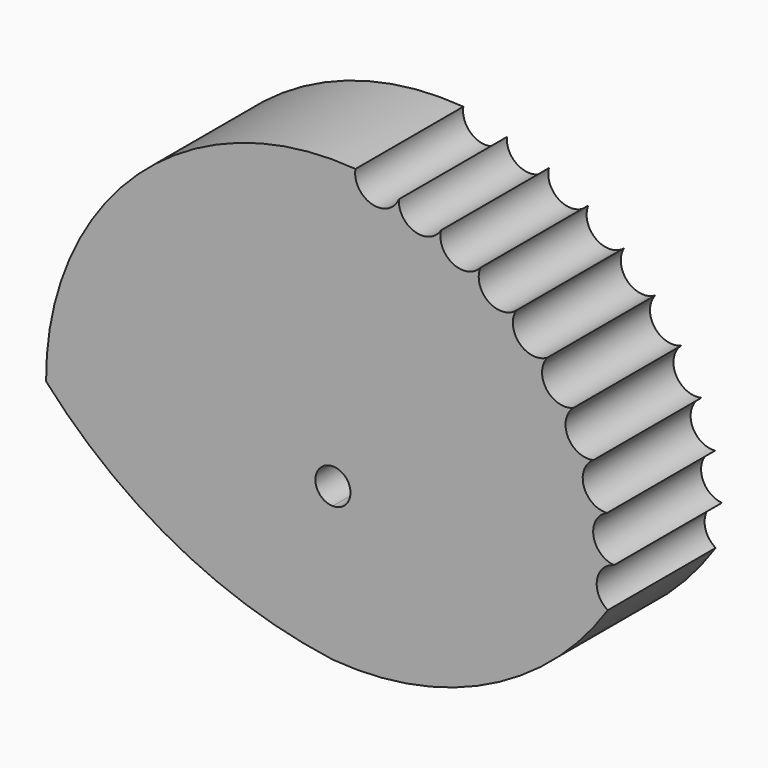
from build123d import *

# Parameters (mm, degrees)
F1_DEPTH = 25.4


with BuildPart() as f1:
    # F0 (on Front) → F1 (new body)
    with BuildSketch(Plane.XZ):
        with BuildLine():
            ThreePointArc((-53.975, 0), (-29.525617, -19.081722), (0, -28.575))
            ThreePointArc((0, -28.575), (29.3147, -23.111721), (51.802958, -3.529144))
            ThreePointArc((51.802958, -3.529144), (49.760215, 0.789496), (52.97806, 4.320632))
            ThreePointArc((52.97806, 4.320632), (49.106205, 7.927093), (51.67978, 12.550353))
            ThreePointArc((51.67978, 12.550353), (47.291419, 15.506721), (49.110072, 20.475657))
            ThreePointArc((49.110072, 20.475657), (44.313262, 22.709137), (45.332211, 27.901397))
            ThreePointArc((45.332211, 27.901397), (40.245064, 29.356992), (40.439221, 34.644726))
            ThreePointArc((40.439221, 34.644726), (35.186999, 35.286595), (34.551581, 40.539601))
            ThreePointArc((34.551581, 40.539601), (29.263613, 40.351939), (27.814267, 45.44087))
            ThreePointArc((27.814267, 45.44087), (22.62076, 44.428299), (20.393173, 49.227849))
            ThreePointArc((20.393173, 49.227849), (15.422007, 47.4153), (12.471031, 51.807289))
            ThreePointArc((12.471031, 51.807289), (7.3296, 49.354138), (4.283725, 54.168171))
            ThreePointArc((4.283725, 54.168171), (-36.753958, 39.891672), (-53.975, 0))
        make_face()
        with BuildLine():
            ThreePointArc((0, -3.114309), (-3.257343, 0.187389), (0, 3.489087))
            ThreePointArc((0, 3.489087), (2.363681, 2.537991), (3.346657, 0.187389))
            ThreePointArc((3.346657, 0.187389), (2.363681, -2.163213), (0, -3.114309))
        make_face(mode=Mode.SUBTRACT)
    extrude(amount=F1_DEPTH)


solid = f1.part
